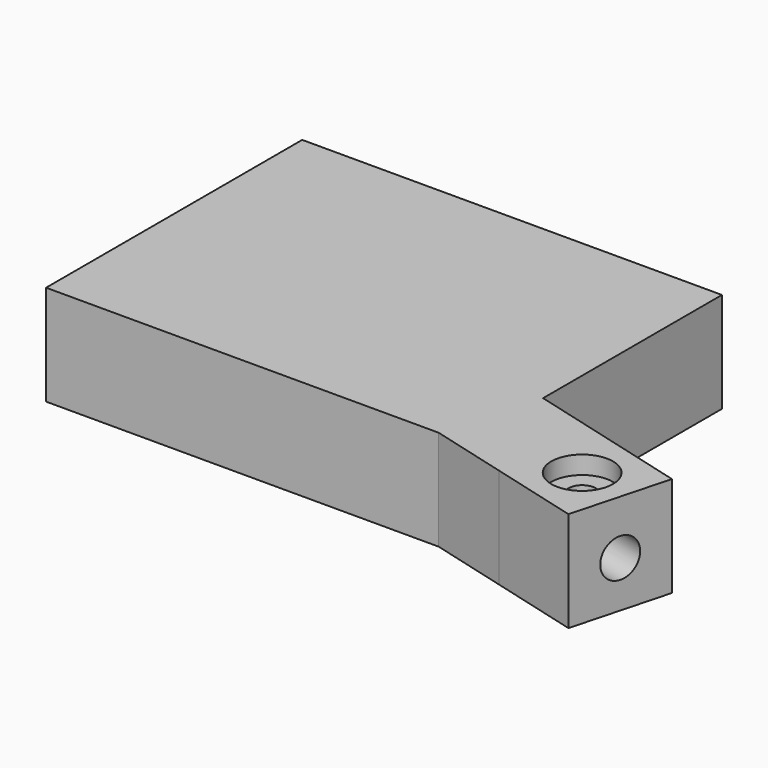
from build123d import *

# Parameters (mm, degrees)
F0_R     = 1.7272
F1_DEPTH = 12.7
F2_R     = 2.4511
F3_DEPTH = 16.51
F4_R     = 3.8989
F4_R_2   = 1.7272
F5_DEPTH = 2.286
F6_R     = 3.8989
F6_R_2   = 1.7272
F7_DEPTH = 2.286


with BuildPart() as f1:
    # F0 (on Top) → F1 (new body)
    with BuildSketch(Plane.XY):
        Polygon((40.905171, 4.372339), (-12.235096, 4.372339), (-12.235096, -11.662856), (-12.235096, -36.157189), (-1.651831, -36.157189), (37.463617, -36.157189), (47.219385, -38.77124), (58.382782, -41.762463), (61.669784, -29.495205), (40.905171, -23.931344), (40.905171, -11.662856), align=None)
        with Locations((53.892654, -33.985333)):
            Circle(F0_R, mode=Mode.SUBTRACT)
    extrude(amount=F1_DEPTH)

    # F2 (on face) → F3 (cut)
    with BuildSketch(Plane(origin=(64.912493, -17.39325, 0), x_dir=(0.258819, 0.965926, 0), z_dir=(0.965926, -0.258819, 0))):
        with Locations((-18.878866, 5.865277)):
            Circle(F2_R)
    extrude(amount=-F3_DEPTH, mode=Mode.SUBTRACT)

    # F4 (on face) → F5 (cut)
    with BuildSketch(Plane.XY.offset(12.7)):
        with Locations((53.892654, -33.985333)):
            Circle(F4_R)
        with Locations((53.892654, -33.985333)):
            Circle(F4_R_2, mode=Mode.SUBTRACT)
    extrude(amount=-F5_DEPTH, mode=Mode.SUBTRACT)

    # F6 (on face) → F7 (cut)
    with BuildSketch(Plane(origin=(0, 0, 0), x_dir=(1, 0, 0), z_dir=(0, 0, -1))):
        with Locations((53.892654, 33.985333)):
            Circle(F6_R)
        with Locations((53.892654, 33.985333)):
            Circle(F6_R_2, mode=Mode.SUBTRACT)
    extrude(amount=-F7_DEPTH, mode=Mode.SUBTRACT)


solid = f1.part
